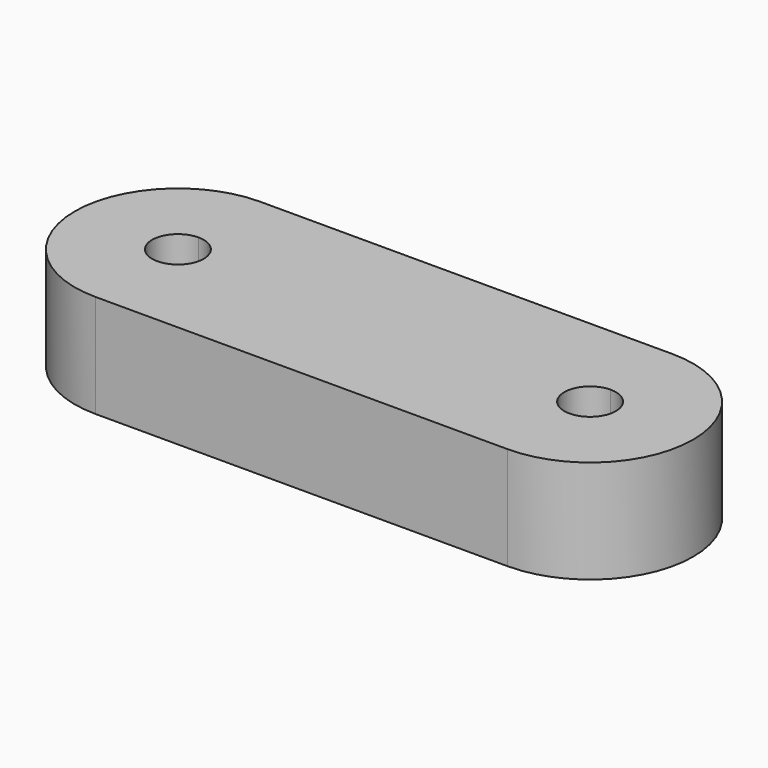
from build123d import *

# Parameters (mm, degrees)
F1_DEPTH = 25.4


with BuildPart() as f1:
    # F0 (on Top) → F1 (new body)
    with BuildSketch(Plane.XY):
        with BuildLine():
            Line((-50.8, -25.4), (50.8, -25.4))
            Line((50.8, -25.4), (50.8, -6.35))
            ThreePointArc((50.8, -6.35), (44.45, 0), (50.8, 6.35))
            Line((50.8, 6.35), (50.8, 25.4))
            Line((50.8, 25.4), (-50.8, 25.4))
            Line((-50.8, 25.4), (-50.8, 6.35))
            ThreePointArc((-50.8, 6.35), (-46.309872, 4.490128), (-44.45, 0))
            ThreePointArc((-44.45, 0), (-46.309872, -4.490128), (-50.8, -6.35))
            Line((-50.8, -6.35), (-50.8, -25.4))
        make_face()
        with BuildLine():
            Line((50.8, -6.35), (50.8, -25.4))
            ThreePointArc((50.8, -25.4), (76.2, 0), (50.8, 25.4))
            Line((50.8, 25.4), (50.8, 6.35))
            ThreePointArc((50.8, 6.35), (55.290128, 4.490128), (57.15, 0))
            ThreePointArc((57.15, 0), (55.290128, -4.490128), (50.8, -6.35))
        make_face()
        with BuildLine():
            ThreePointArc((-50.8, 25.4), (-76.2, 0), (-50.8, -25.4))
            Line((-50.8, -25.4), (-50.8, -6.35))
            ThreePointArc((-50.8, -6.35), (-57.15, 0), (-50.8, 6.35))
            Line((-50.8, 6.35), (-50.8, 25.4))
        make_face()
    extrude(amount=F1_DEPTH)


solid = f1.part
